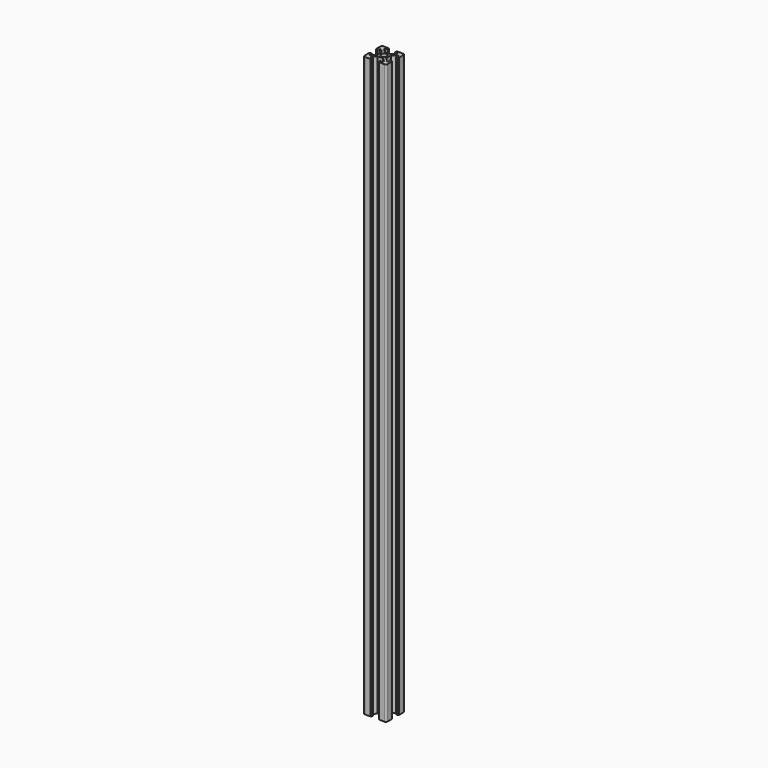
from build123d import *

# Parameters (mm, degrees)
F0_R     = 2.5
F1_DEPTH = 500


with BuildPart() as f1:
    # F0 (on Top) → F1 (new body)
    with BuildSketch(Plane.XY):
        with BuildLine():
            Line((-3.6, 10), (-8.5, 10))
            ThreePointArc((-8.5, 10), (-9.56066, 9.56066), (-10, 8.5))
            Line((-10, 8.5), (-10, 3.6))
            Line((-10, 3.6), (-9.5, 3.6))
            Line((-9.5, 3.6), (-9.5, 3.1))
            Line((-9.5, 3.1), (-8, 3.1))
            Line((-8, 3.1), (-8, 5.5))
            Line((-8, 5.5), (-6.914214, 5.5))
            Line((-6.914214, 5.5), (-4, 2.585786))
            Line((-4, 2.585786), (-4, -2.288562))
            Line((-4, -2.288562), (-6.833622, -5.5))
            Line((-6.833622, -5.5), (-8, -5.5))
            Line((-8, -5.5), (-8, -3.1))
            Line((-8, -3.1), (-9.5, -3.1))
            Line((-9.5, -3.1), (-9.5, -3.6))
            Line((-9.5, -3.6), (-10, -3.6))
            Line((-10, -3.6), (-10, -8.5))
            ThreePointArc((-10, -8.5), (-9.56066, -9.56066), (-8.5, -10))
            Line((-8.5, -10), (-3.6, -10))
            Line((-3.6, -10), (-3.6, -9.5))
            Line((-3.6, -9.5), (-3.1, -9.5))
            Line((-3.1, -9.5), (-3.1, -8))
            Line((-3.1, -8), (-5.5, -8))
            Line((-5.5, -8), (-5.5, -7.011438))
            Line((-5.5, -7.011438), (-2.666378, -3.8))
            Line((-2.666378, -3.8), (2.385786, -3.8))
            Line((2.385786, -3.8), (5.5, -6.914214))
            Line((5.5, -6.914214), (5.5, -8))
            Line((5.5, -8), (3.1, -8))
            Line((3.1, -8), (3.1, -9.5))
            Line((3.1, -9.5), (3.6, -9.5))
            Line((3.6, -9.5), (3.6, -10))
            Line((3.6, -10), (8.5, -10))
            ThreePointArc((8.5, -10), (9.56066, -9.56066), (10, -8.5))
            Line((10, -8.5), (10, -3.6))
            Line((10, -3.6), (9.5, -3.6))
            Line((9.5, -3.6), (9.5, -3.1))
            Line((9.5, -3.1), (8, -3.1))
            Line((8, -3.1), (8, -5.5))
            Line((8, -5.5), (6.914214, -5.5))
            Line((6.914214, -5.5), (3.8, -2.385786))
            Line((3.8, -2.385786), (3.8, 2.666378))
            Line((3.8, 2.666378), (7.011438, 5.5))
            Line((7.011438, 5.5), (8, 5.5))
            Line((8, 5.5), (8, 3.1))
            Line((8, 3.1), (9.5, 3.1))
            Line((9.5, 3.1), (9.5, 3.6))
            Line((9.5, 3.6), (10, 3.6))
            Line((10, 3.6), (10, 8.5))
            ThreePointArc((10, 8.5), (9.56066, 9.56066), (8.5, 10))
            Line((8.5, 10), (3.6, 10))
            Line((3.6, 10), (3.6, 9.5))
            Line((3.6, 9.5), (3.1, 9.5))
            Line((3.1, 9.5), (3.1, 8))
            Line((3.1, 8), (5.5, 8))
            Line((5.5, 8), (5.5, 6.833622))
            Line((5.5, 6.833622), (2.288562, 4))
            Line((2.288562, 4), (-2.585786, 4))
            Line((-2.585786, 4), (-5.5, 6.914214))
            Line((-5.5, 6.914214), (-5.5, 8))
            Line((-5.5, 8), (-3.1, 8))
            Line((-3.1, 8), (-3.1, 9.5))
            Line((-3.1, 9.5), (-3.6, 9.5))
            Line((-3.6, 9.5), (-3.6, 10))
        make_face()
        Circle(F0_R, mode=Mode.SUBTRACT)
    extrude(amount=F1_DEPTH)


solid = f1.part
